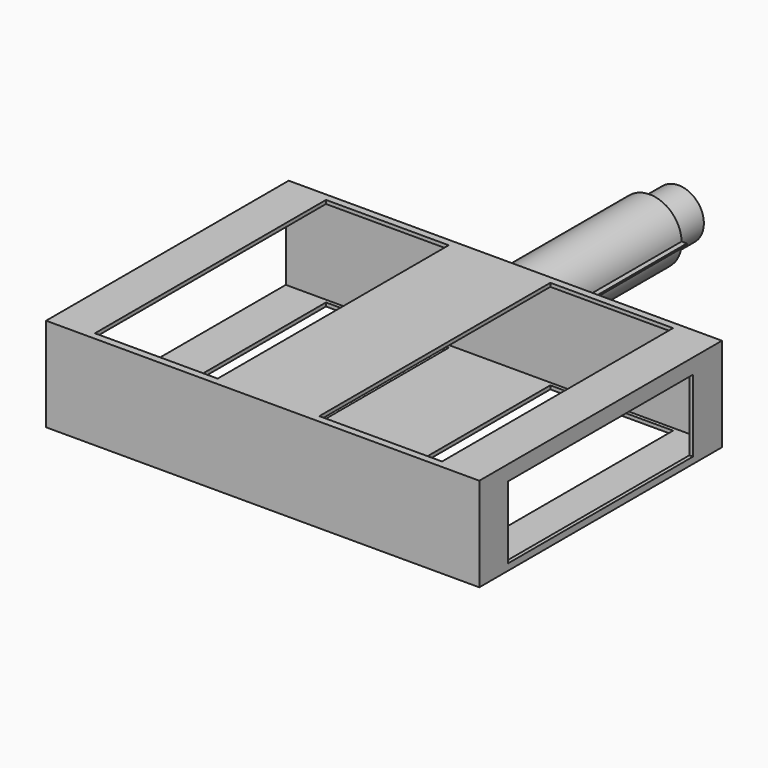
from build123d import *

# Parameters (mm, degrees)
F0_W      = 60
F0_H      = 13
F1_DEPTH  = 42
F2_T      = -0.5
F3_W      = 32
F3_H      = 10
F4_DEPTH  = 25
F5_W      = 17
F5_H      = 40
F6_DEPTH  = 25
F7_R      = 3.5
F8_DEPTH  = 30
F9_T      = -1
F10_R     = 3.5
F11_DEPTH = 25


with BuildPart() as f1:
    # F0 (on Front) → F1 (new body)
    with BuildSketch(Plane.XZ):
        with Locations((30, 6.5)):
            Rectangle(F0_W, F0_H)
    extrude(amount=F1_DEPTH)

    # F2
    f2_openings = [f1.faces().sort_by_distance(p)[0] for p in [
        (0, -21, 6.5),
    ]]
    offset(amount=F2_T, openings=f2_openings)

    # F3 (on face) → F4 (cut)
    with BuildSketch(Plane.YZ.offset(60)):
        with Locations((-21, 5.9)):
            Rectangle(F3_W, F3_H)
    extrude(amount=-F4_DEPTH, mode=Mode.SUBTRACT)

    # F5 (on face) → F6 (cut)
    with BuildSketch(Plane.XY.offset(13)):
        with Locations((14.4643624128, -21)):
            Rectangle(F5_W, F5_H)
        with Locations((45.5356375872, -21)):
            Rectangle(F5_W, F5_H)
    extrude(amount=-F6_DEPTH, mode=Mode.SUBTRACT)

    # F7 (on face) → F8 (join)
    with BuildSketch(Plane(origin=(0, 0, 0), x_dir=(-1, 0, 0), z_dir=(0, 1, 0))):
        with Locations((-30, 6.5)):
            Circle(F7_R)
    extrude(amount=F8_DEPTH)

    # F9
    f9_openings = [f1.faces().sort_by_distance(p)[0] for p in [
        (30, 30, 6.5),
    ]]
    offset(amount=F9_T, openings=f9_openings)

    # F10 (on face) → F11 (join)
    with BuildSketch(Plane(origin=(0, 0, 0), x_dir=(-1, 0, 0), z_dir=(0, 1, 0))):
        with BuildLine():
            Line((-34.4180972565, 6.3872897981), (-34.4180972565, 6.6127102019))
            ThreePointArc((-34.4180972565, 6.6127102019), (-34.4195346992, 6.5), (-34.4180972565, 6.3872897981))
        make_face()
        with BuildLine():
            ThreePointArc((-34.4180972565, 6.3872897981), (-29.9436403161, 2.0808246761), (-25.5804653008, 6.5))
            ThreePointArc((-25.5804653008, 6.5), (-29.9436403161, 10.9191753239), (-34.4180972565, 6.6127102019))
            Line((-34.4180972565, 6.6127102019), (-34.4180972565, 6.3872897981))
        make_face()
        with Locations((-30, 6.5)):
            Circle(F10_R, mode=Mode.SUBTRACT)
        with BuildLine():
            ThreePointArc((-34.4180972565, 6.3872897981), (-34.4195346992, 6.5), (-34.4180972565, 6.6127102019))
            Line((-34.4180972565, 6.6127102019), (-35.146126033, 6.6127102019))
            Line((-35.146126033, 6.6127102019), (-35.146126033, 6.3872897981))
            Line((-35.146126033, 6.3872897981), (-34.4180972565, 6.3872897981))
        make_face()
        with BuildLine():
            ThreePointArc((-34.4180972565, 6.3872897981), (-29.9436403161, 2.0808246761), (-25.5804653008, 6.5))
            ThreePointArc((-25.5804653008, 6.5), (-29.9436403161, 10.9191753239), (-34.4180972565, 6.6127102019))
            Line((-34.4180972565, 6.6127102019), (-34.4180972565, 6.3872897981))
        make_face()
        with Locations((-30, 6.5)):
            Circle(F10_R, mode=Mode.SUBTRACT)
    extrude(amount=F11_DEPTH)


solid = f1.part
